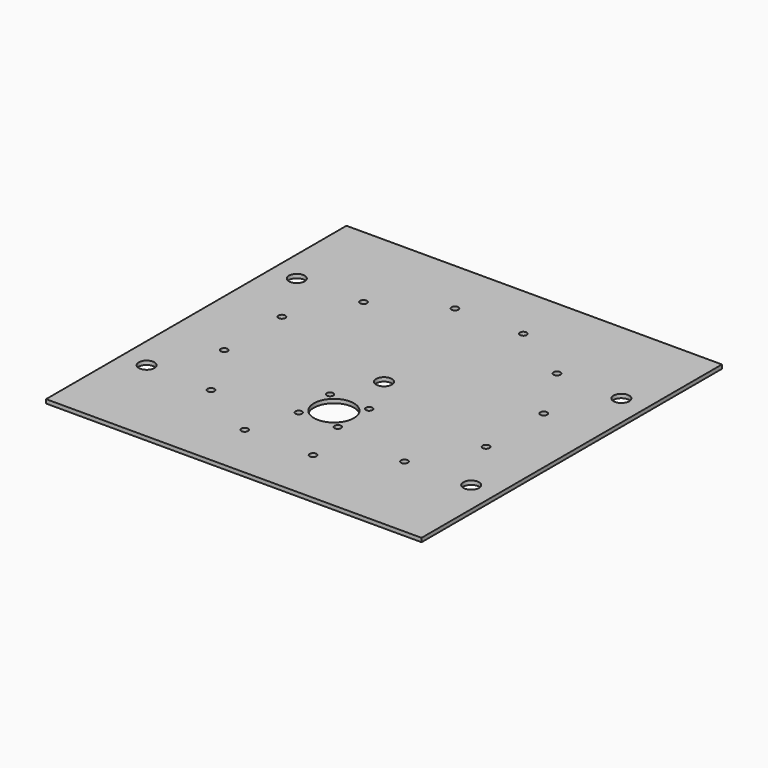
from build123d import *

# Parameters (mm, degrees)
F0_W     = 304.8
F0_H     = 304.8
F0_R     = 2.778125
F0_R_2   = 6.35
F0_R_3   = 2.667
F0_R_4   = 16.256
F1_DEPTH = 3.175


with BuildPart() as f1:
    # F0 (on Top) → F1 (new body)
    with BuildSketch(Plane.XY):
        with Locations((0, 50.8)):
            Rectangle(F0_W, F0_H)
        with Locations((-78.496965, -26.599268)):
            Circle(F0_R, mode=Mode.SUBTRACT)
        with Locations((-27.78125, -55.88)):
            Circle(F0_R, mode=Mode.SUBTRACT)
        with Locations((-131.7625, -25.4)):
            Circle(F0_R_2, mode=Mode.SUBTRACT)
        with Locations((-106.278215, 21.519268)):
            Circle(F0_R, mode=Mode.SUBTRACT)
        with Locations((-15.913014, -15.913014)):
            Circle(F0_R_3, mode=Mode.SUBTRACT)
        with Locations((-15.913014, 15.913014)):
            Circle(F0_R_3, mode=Mode.SUBTRACT)
        with Locations((27.78125, -55.88)):
            Circle(F0_R, mode=Mode.SUBTRACT)
        with Locations((78.496965, -26.599268)):
            Circle(F0_R, mode=Mode.SUBTRACT)
        with Locations((15.913014, -15.913014)):
            Circle(F0_R_3, mode=Mode.SUBTRACT)
        Circle(F0_R_4, mode=Mode.SUBTRACT)
        with Locations((15.913014, 15.913014)):
            Circle(F0_R_3, mode=Mode.SUBTRACT)
        with Locations((131.7625, -25.4)):
            Circle(F0_R_2, mode=Mode.SUBTRACT)
        with Locations((106.278215, 21.519268)):
            Circle(F0_R, mode=Mode.SUBTRACT)
        with Locations((-106.278215, 80.080732)):
            Circle(F0_R, mode=Mode.SUBTRACT)
        with Locations((-131.7625, 127)):
            Circle(F0_R_2, mode=Mode.SUBTRACT)
        with Locations((-78.496965, 128.199268)):
            Circle(F0_R, mode=Mode.SUBTRACT)
        with Locations((-27.78125, 157.48)):
            Circle(F0_R, mode=Mode.SUBTRACT)
        with Locations((0, 50.8)):
            Circle(F0_R_2, mode=Mode.SUBTRACT)
        with Locations((106.278215, 80.080732)):
            Circle(F0_R, mode=Mode.SUBTRACT)
        with Locations((27.78125, 157.48)):
            Circle(F0_R, mode=Mode.SUBTRACT)
        with Locations((78.496965, 128.199268)):
            Circle(F0_R, mode=Mode.SUBTRACT)
        with Locations((131.7625, 127)):
            Circle(F0_R_2, mode=Mode.SUBTRACT)
    extrude(amount=F1_DEPTH)


solid = f1.part
